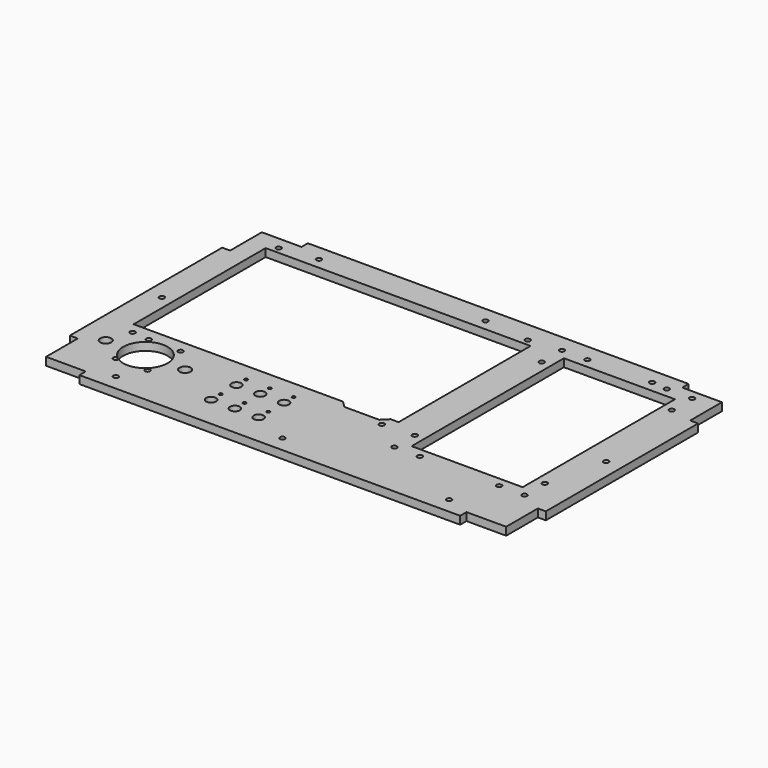
from build123d import *

# Parameters (mm, degrees)
F0_R     = 1.6
F5_DEPTH = 5
F1_R     = 1.6
F2_W     = 70
F2_H     = 120
F2_R     = 1.6
F3_R     = 1.6
F3_R_2   = 3.5
F4_R     = 3.1
F4_R_2   = 1
F6_DEPTH = 5


with BuildPart() as f5:
    # F0 (on Top) → F5 (new body)
    with BuildSketch(Plane.XY):
        Polygon((120, 90), (-120, 90), (-120, 85), (-145, 85), (-145, 60), (-150, 60), (-150, -60), (-145, -60), (-145, -85), (-120, -85), (-120, -90), (120, -90), (120, -85), (145, -85), (145, -60), (150, -60), (150, 60), (145, 60), (145, 85), (120, 85), align=None)
        with Locations((-105, -80)):
            Circle(F0_R, mode=Mode.SUBTRACT)
        with Locations((0, -80)):
            Circle(F0_R, mode=Mode.SUBTRACT)
        with Locations((105, -80)):
            Circle(F0_R, mode=Mode.SUBTRACT)
        with Locations((-140, 0)):
            Circle(F0_R, mode=Mode.SUBTRACT)
        with Locations((-105, 80)):
            Circle(F0_R, mode=Mode.SUBTRACT)
        with Locations((140, 0)):
            Circle(F0_R, mode=Mode.SUBTRACT)
        with Locations((0, 80)):
            Circle(F0_R, mode=Mode.SUBTRACT)
        with Locations((105, 80)):
            Circle(F0_R, mode=Mode.SUBTRACT)
    extrude(amount=F5_DEPTH)

    # F1 (on face) + F2 (on face) + F3 (on face) + F4 (on face) → F6 (cut)
    with BuildSketch(Plane.XY):
        Polygon((34, 73), (-133, 73), (-133, -31), (-1, -31), (28.2220042013, -31), (29, -31), (31.171190082, -31), (34, -31), align=None)
        Polygon((28.2220042013, -31), (-1, -31), (3, -35), (25, -35), (29, -31), align=None)
        with Locations((-128, 77)):
            Circle(F1_R)
        with Locations((29, 77)):
            Circle(F1_R)
        with Locations((29, -38)):
            Circle(F1_R)
        with Locations((-128, -38)):
            Circle(F1_R)
    with BuildSketch(Plane.XY):
        with Locations((90, 13)):
            Rectangle(F2_W, F2_H)
        with Locations((131, 79)):
            Circle(F2_R)
        with Locations((115, 79)):
            Circle(F2_R)
        with Locations((131, 63)):
            Circle(F2_R)
        with Locations((65, 79)):
            Circle(F2_R)
        with Locations((49, 79)):
            Circle(F2_R)
        with Locations((49, 63)):
            Circle(F2_R)
        with Locations((49, -37)):
            Circle(F2_R)
        with Locations((49, -53)):
            Circle(F2_R)
        with Locations((65, -53)):
            Circle(F2_R)
        with Locations((115, -53)):
            Circle(F2_R)
        with Locations((131, -53)):
            Circle(F2_R)
        with Locations((131, -37)):
            Circle(F2_R)
    with BuildSketch(Plane.XY):
        with BuildLine():
            ThreePointArc((-115.4043781836, -64.8817163623), (-101.205196639, -65.2405329657), (-94, -53))
            ThreePointArc((-94, -53), (-113.715544356, -40.2198375317), (-117.3332218164, -63.4350836377))
            ThreePointArc((-117.3332218164, -63.4350836377), (-116.04, -63.72), (-115.4043781836, -64.8817163623))
        make_face()
        with BuildLine():
            ThreePointArc((-115.4043781836, -64.8817163623), (-116.04, -63.72), (-117.3332218164, -63.4350836377))
            ThreePointArc((-117.3332218164, -63.4350836377), (-116.4, -64.2), (-115.4043781836, -64.8817163623))
        make_face()
        with BuildLine():
            ThreePointArc((-115.4043781836, -64.8817163623), (-116.4, -64.2), (-117.3332218164, -63.4350836377))
            ThreePointArc((-117.3332218164, -63.4350836377), (-118.0066889027, -66.2436146723), (-115.4, -65))
            ThreePointArc((-115.4, -65), (-115.4010949205, -64.9408176812), (-115.4043781836, -64.8817163623))
        make_face()
        with Locations((-117, -39)):
            Circle(F3_R)
        with Locations((-97, -39)):
            Circle(F3_R)
        with Locations((-97, -65)):
            Circle(F3_R)
        with Locations((-83, -53)):
            Circle(F3_R_2)
        with Locations((-133, -53)):
            Circle(F3_R_2)
    with BuildSketch(Plane.XY):
        with Locations((-53, -70)):
            Circle(F4_R)
        with Locations((-53, -62.4)):
            Circle(F4_R_2)
        with Locations((-53, -50)):
            Circle(F4_R)
        with Locations((-53, -42.4)):
            Circle(F4_R_2)
        with Locations((-38, -70)):
            Circle(F4_R)
        with Locations((-38, -62.4)):
            Circle(F4_R_2)
        with Locations((-38, -50)):
            Circle(F4_R)
        with Locations((-38, -42.4)):
            Circle(F4_R_2)
        with Locations((-23, -70)):
            Circle(F4_R)
        with Locations((-23, -62.4)):
            Circle(F4_R_2)
        with Locations((-23, -50)):
            Circle(F4_R)
        with Locations((-23, -42.4)):
            Circle(F4_R_2)
    extrude(amount=F6_DEPTH, mode=Mode.SUBTRACT)


solid = f5.part
